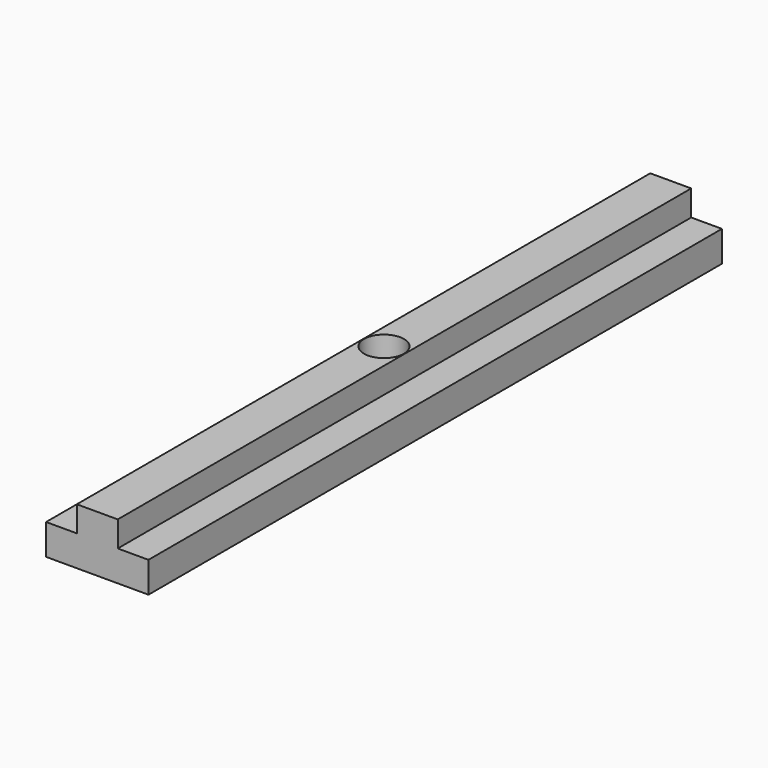
from build123d import *

# Parameters (mm, degrees)
F1_DEPTH = 70
F2_R     = 1.95
F3_DEPTH = 25


with BuildPart() as f1:
    # F0 (on Front) → F1 (new body)
    with BuildSketch(Plane.XZ):
        Polygon((-5, 0.25), (-5, -2.75), (5, -2.75), (5, 0.25), (2.115, 0.25), (2, 0.25), (2, 2.75), (0, 2.75), (-2, 2.75), (-2, 0.25), align=None)
    extrude(amount=F1_DEPTH)

    # F2 (on face) → F3 (cut)
    with BuildSketch(Plane.XY.offset(2.75)):
        with Locations((0, -35)):
            Circle(F2_R)
    extrude(amount=-F3_DEPTH, mode=Mode.SUBTRACT)


solid = f1.part
